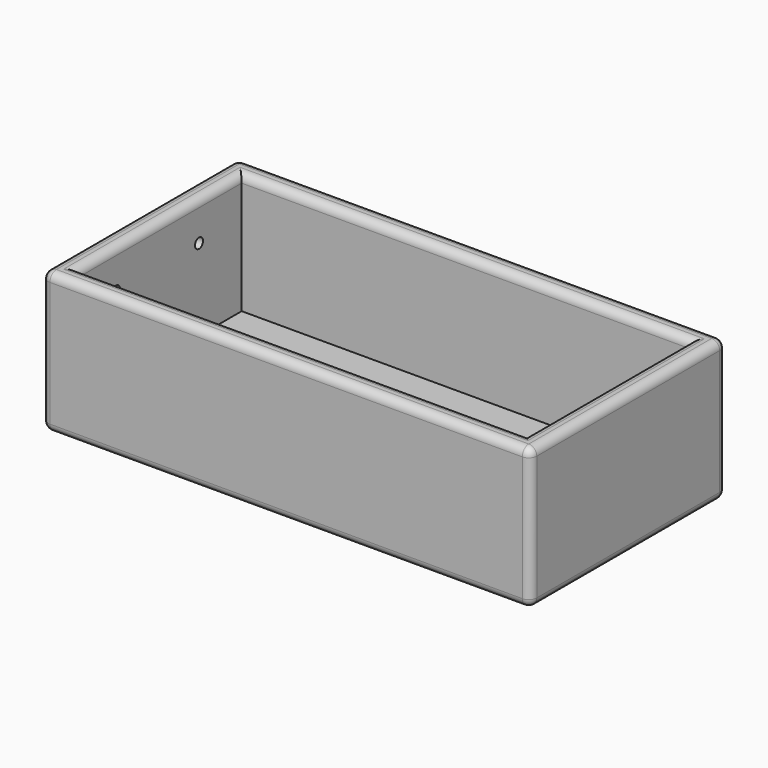
from build123d import *

# Parameters (mm, degrees)
F0_W     = 121.37
F0_H     = 60.8
F0_W_2   = 111.37
F0_H_2   = 50.8
F1_DEPTH = 5
F2_DEPTH = 35
F3_R     = 1.25
F4_DEPTH = 75
F5_R     = 2


with BuildPart() as f1:
    # F0 (on Top) → F1 (new body)
    with BuildSketch(Plane.XY):
        with Locations((-0.463949, -2.512982)):
            Rectangle(F0_W, F0_H)
        with Locations((-0.463949, -2.512982)):
            Rectangle(F0_W_2, F0_H_2, mode=Mode.SUBTRACT)
        with Locations((-0.463949, -2.512982)):
            Rectangle(F0_W_2, F0_H_2)
    extrude(amount=F1_DEPTH)

    # F0 (on Top) → F2 (join)
    with BuildSketch(Plane.XY):
        with Locations((-0.463949, -2.512982)):
            Rectangle(F0_W, F0_H)
        with Locations((-0.463949, -2.512982)):
            Rectangle(F0_W_2, F0_H_2, mode=Mode.SUBTRACT)
    extrude(amount=F2_DEPTH)

    # F3 (on Right) → F4 (cut)
    with BuildSketch(Plane.YZ):
        with Locations((-16.162982, 25.25)):
            Circle(F3_R)
        with Locations((9.637018, 25.25)):
            Circle(F3_R)
    extrude(amount=-F4_DEPTH, mode=Mode.SUBTRACT)

    # F5
    f5_edges = [f1.edges().sort_by_distance(p)[0] for p in [
        (-61.148949, -32.912982, 17.5),
        (-0.463949, -32.912982, 35),
        (60.221051, -32.912982, 17.5),
        (-0.463949, -32.912982, 0),
        (60.221051, 27.887018, 17.5),
        (-0.463949, 27.887018, 35),
        (-61.148949, 27.887018, 17.5),
        (-0.463949, 27.887018, 0),
        (60.221051, -2.512982, 35),
        (60.221051, -2.512982, 0),
        (55.221051, -2.512982, 35),
        (-0.463949, 22.887018, 35),
        (-56.148949, -2.512982, 35),
        (-0.463949, -27.912982, 35),
        (-61.148949, -2.512982, 35),
        (-61.148949, -2.512982, 0),
    ]]
    fillet(f5_edges, radius=F5_R)


solid = f1.part
